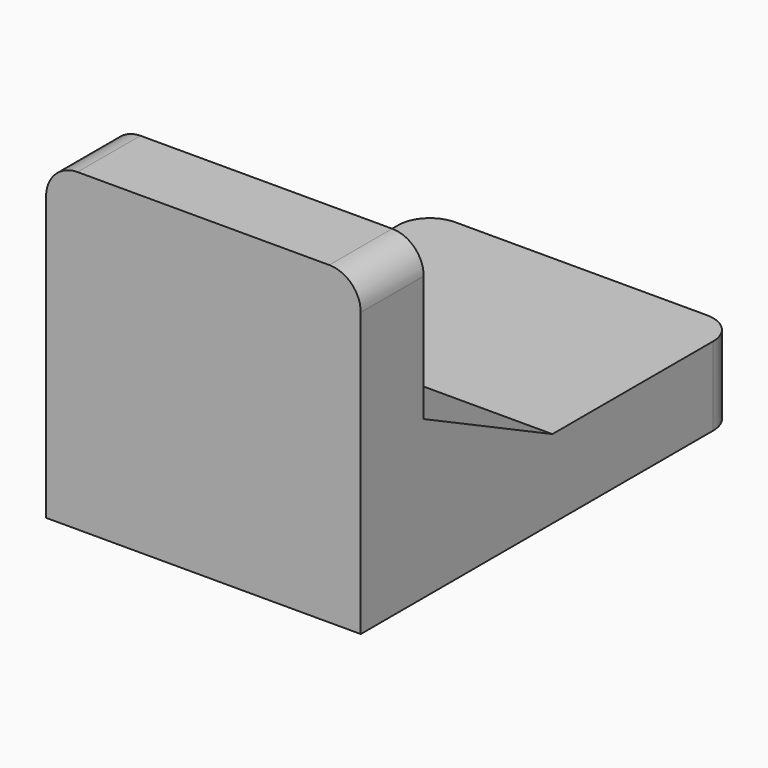
from build123d import *

# Parameters (mm, degrees)
F1_DEPTH = 40
F2_R     = 4


with BuildPart() as f1:
    # F0 (on Right) → F1 (new body)
    with BuildSketch(Plane.YZ):
        Polygon((-32.277047, 20), (-32.277047, -20), (27.722953, -20), (27.722953, -10), (-1.822363, -10), (-22.277047, 0), (-22.277047, 20), align=None)
    extrude(amount=F1_DEPTH)

    # F2
    f2_edges = [f1.edges().sort_by_distance(p)[0] for p in [
        (40, -27.277047, 20),
        (0, -27.277047, 20),
        (40, 27.722953, -15),
        (0, 27.722953, -15),
    ]]
    fillet(f2_edges, radius=F2_R)


solid = f1.part
